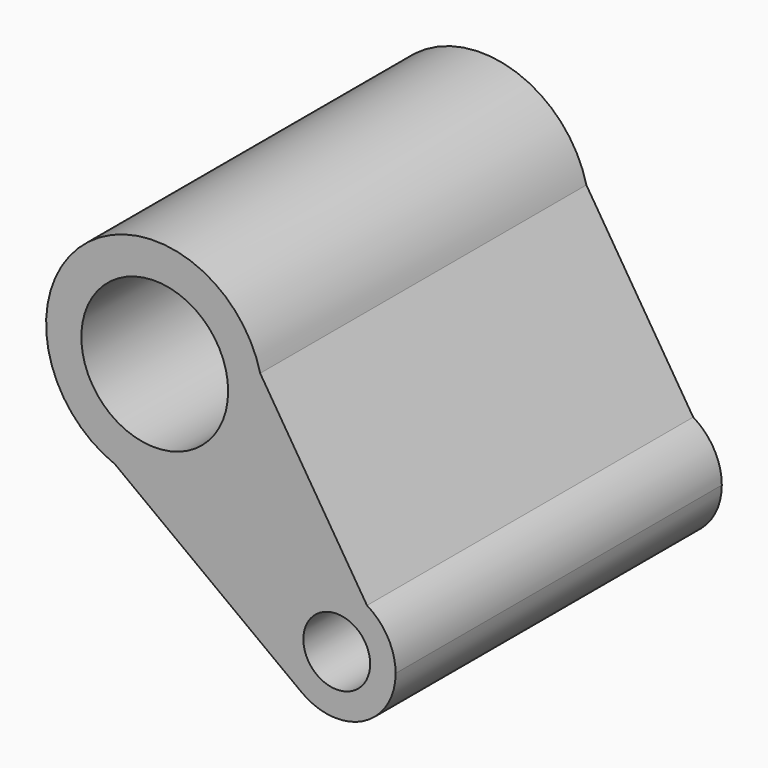
from build123d import *

# Parameters (mm, degrees)
F0_R     = 22.981247
F0_R_2   = 10.460463
F1_DEPTH = 127.6604
F3_DEPTH = 25.4


with BuildPart() as f1:
    # F0 (on Front) → F1 (new body)
    with BuildSketch(Plane.XZ):
        with BuildLine():
            ThreePointArc((-51.855936, 7.190227), (-20.268045, 10.749642), (-5.414695, 38.853776))
            ThreePointArc((-5.414695, 38.853776), (-5.666436, 42.984448), (-6.417935, 47.053977))
            ThreePointArc((-6.417935, 47.053977), (-61.861826, 64.422999), (-51.855936, 7.190227))
        make_face()
        with Locations((-39.429389, 38.853776)):
            Circle(F0_R, mode=Mode.SUBTRACT)
        with BuildLine():
            ThreePointArc((-6.417935, 47.053977), (-5.666436, 42.984448), (-5.414695, 38.853776))
            ThreePointArc((-5.414695, 38.853776), (-20.268045, 10.749642), (-51.855936, 7.190227))
            Line((-51.855936, 7.190227), (6.492535, -36.611223))
            ThreePointArc((6.492535, -36.611223), (2.262835, -11.590906), (27.029378, -6.065964))
            Line((27.029378, -6.065964), (-6.417935, 47.053977))
        make_face()
        with BuildLine():
            ThreePointArc((35.984713, -21.873237), (33.590331, -12.789351), (27.029378, -6.065964))
            ThreePointArc((27.029378, -6.065964), (2.262835, -11.590906), (6.492535, -36.611223))
            ThreePointArc((6.492535, -36.611223), (25.794032, -38.358054), (35.984713, -21.873237))
        make_face()
        with Locations((17.556152, -21.873237)):
            Circle(F0_R_2, mode=Mode.SUBTRACT)
    extrude(amount=F1_DEPTH)


with BuildPart() as f3:
    # F2 (on Front) → F3 (new body)
    with BuildSketch(Plane.XZ):
        with BuildLine():
            ThreePointArc((-49.875129, -40.868416), (-45.188758, -34.341089), (-43.532876, -26.478129))
            ThreePointArc((-43.532876, -26.478129), (-57.875969, -7.674981), (-79.801623, -16.537736))
            ThreePointArc((-79.801623, -16.537736), (-75.328553, -41.605889), (-49.875129, -40.868416))
        make_face()
    extrude(amount=F3_DEPTH)


solid = Compound([f1.part, f3.part])
